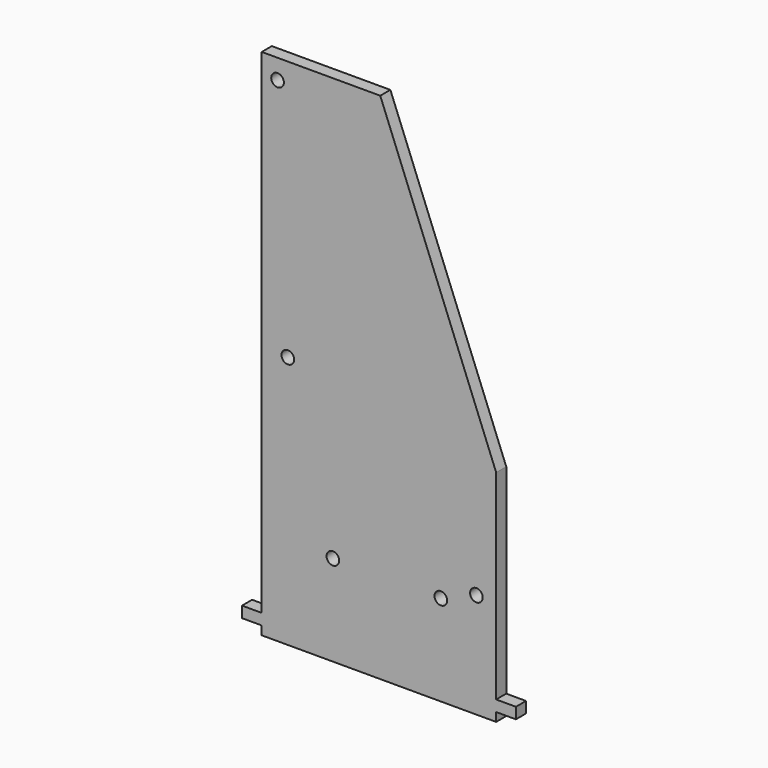
from build123d import *

# Parameters (mm, degrees)
F0_R      = 1.6
F0_W      = 30
F0_H      = 47.428162
F0_W_2    = 59.333406
F0_H_2    = 55.571838
F1_DEPTH  = 3.2
F2_DEPTH  = 2.3
F3_R      = 1.6
F4_DEPTH  = 11
F5_R      = 1.6
F6_DEPTH  = 11
F7_W      = 3.2
F7_H      = 2.8
F8_DEPTH  = 5
F9_W      = 3.2
F9_H      = 2.8
F10_DEPTH = 5
F11_R     = 1.6
F12_DEPTH = 8
F13_R     = 1.6
F14_DEPTH = 10


with BuildPart() as f1:
    # F0 (on Front) → F1 (new body)
    with BuildSketch(Plane.XZ):
        Polygon((-42.532899, 30.527938), (-42.532899, 3.527938), (16.800507, 3.527938), (-12.532899, 77.9561), (-12.532899, 30.527938), align=None)
        with Locations((-35.932899, 12.05425)):
            Circle(F0_R, mode=Mode.SUBTRACT)
        with Locations((-27.532899, 54.242019)):
            Rectangle(F0_W, F0_H)
        with Locations((-12.866196, -24.257981)):
            Rectangle(F0_W_2, F0_H_2)
    extrude(amount=F1_DEPTH)

    # F0 (on Front) → F2 (join)
    with BuildSketch(Plane.XZ):
        Polygon((-42.532899, 30.527938), (-42.532899, 3.527938), (16.800507, 3.527938), (-12.532899, 77.9561), (-12.532899, 30.527938), align=None)
        with Locations((-35.932899, 12.05425)):
            Circle(F0_R, mode=Mode.SUBTRACT)
        with Locations((-12.866196, -24.257981)):
            Rectangle(F0_W_2, F0_H_2)
        with Locations((-27.532899, 54.242019)):
            Rectangle(F0_W, F0_H)
    extrude(amount=F2_DEPTH)

    # F3 (on face) → F4 (cut)
    with BuildSketch(Plane.XZ.offset(3.2)):
        with Locations((11.800507, -25.4439)):
            Circle(F3_R)
    extrude(amount=-F4_DEPTH, mode=Mode.SUBTRACT)

    # F5 (on face) → F6 (cut)
    with BuildSketch(Plane.XZ.offset(3.2)):
        with Locations((-38.532899, 72.9561)):
            Circle(F5_R)
    extrude(amount=-F6_DEPTH, mode=Mode.SUBTRACT)

    # F7 (on face) → F8 (join)
    with BuildSketch(Plane.YZ.offset(16.800507)):
        with Locations((-1.6, -48.4439)):
            Rectangle(F7_W, F7_H)
    extrude(amount=F8_DEPTH)

    # F9 (on face) → F10 (join)
    with BuildSketch(Plane(origin=(-42.532899, 0, 0), x_dir=(0, -1, 0), z_dir=(-1, 0, 0))):
        with Locations((1.6, -48.4439)):
            Rectangle(F9_W, F9_H)
    extrude(amount=F10_DEPTH)

    # F11 (on face) → F12 (cut)
    with BuildSketch(Plane.XZ.offset(3.2)):
        with Locations((-24.532899, -29.0439)):
            Circle(F11_R)
    extrude(amount=-F12_DEPTH, mode=Mode.SUBTRACT)

    # F13 (on face) → F14 (cut)
    with BuildSketch(Plane.XZ.offset(3.2)):
        with Locations((2.800507, -29.0439)):
            Circle(F13_R)
    extrude(amount=-F14_DEPTH, mode=Mode.SUBTRACT)


solid = f1.part
